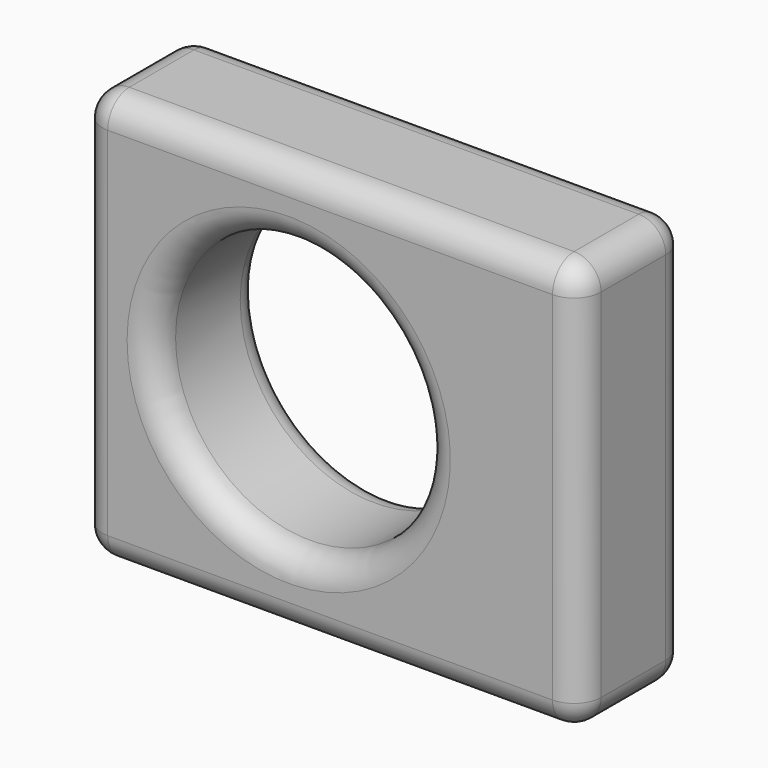
from build123d import *

# Parameters (mm, degrees)
F0_W     = 94.0536260605
F0_H     = 77.4676054716
F1_DEPTH = 25.4
F3_D     = 50.8
F4_R     = 5.08


with BuildPart() as f1:
    # F0 (on Front) → F1 (new body)
    with BuildSketch(Plane.XZ):
        with Locations((-22.8047668934, 18.0189460516)):
            Rectangle(F0_W, F0_H)
    extrude(amount=F1_DEPTH)

    # F3 (through all)
    with Locations(Plane.XZ.offset(25.4)):
        with Locations((-30.6195504963, 18.0068686604)):
            Hole(F3_D / 2)

    # F4
    f4_edges = [f1.edges().sort_by_distance(p)[0] for p in [
        (-22.804767, -25.4, -20.714857),
        (-69.83158, -25.4, 18.018946),
        (24.222046, -25.4, 18.018946),
        (-22.804767, -25.4, 56.752749),
        (-56.01955, -25.4, 18.006869),
        (24.222046, -12.7, 56.752749),
        (-69.83158, -12.7, 56.752749),
        (-22.804767, 0, 56.752749),
        (24.222046, -12.7, -20.714857),
        (24.222046, 0, 18.018946),
        (-69.83158, -12.7, -20.714857),
        (-22.804767, 0, -20.714857),
        (-69.83158, 0, 18.018946),
        (-56.01955, 0, 18.006869),
    ]]
    fillet(f4_edges, radius=F4_R)


solid = f1.part
